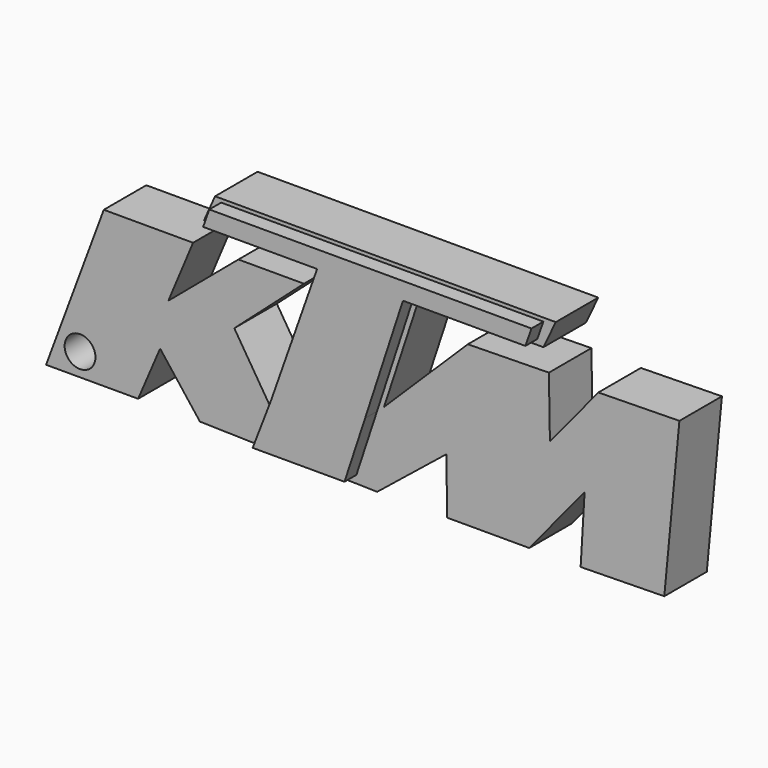
from build123d import *

# Parameters (mm, degrees)
F1_DEPTH = 2.5
F2_R     = 0.7249372234
F3_DEPTH = 2.5
F5_DEPTH = 0.7


with BuildPart() as f1:
    # F0 (on Front) → F1 (new body)
    with BuildSketch(Plane.XZ):
        Polygon((-9.4160782173, 4.8845554702), (-12.13010028, -2.4174565915), (-7.8005888499, -2.4174565915), (-6.7666755058, 0), (-4.8927078024, -2.4174565915), (3.4432173707, -2.6133938689), (6.6945207968, 0), (6.7388154566, -2.6133938689), (10.5981117284, -2.6133938689), (13.2007738575, 0.5550436326), (13.0135210928, -2.6133938689), (16.9487092644, -2.5466959924), (17.65952399, 4.9491748214), (13.846969232, 4.8845554702), (11.5687668393, 2.1111098447), (11.5206642076, 4.9491748214), (7.7081094496, 4.8845554702), (3.7663155235, 1.0073808953), (5.3818048909, 5.9184683487), (11.2621868029, 5.9184683487), (11.8437623605, 7.1462406777), (-4.1818926111, 7.1462406777), (-4.6988492832, 5.9830881655), (0.8584343595, 5.9830881655), (-1.5324898995, -0.8019671077), (-3.277218435, 1.9766744226), (0, 4.8845554702), (-3.0833596829, 4.8845554702), (-6.3789580017, 2.1059135906), (-5.2158059552, 4.8845554702), align=None)
    extrude(amount=F1_DEPTH)

    # F2 (on face) → F3 (cut, through all)
    with BuildSketch(Plane.XZ.offset(2.5)):
        with Locations((-10.5334725231, -1.3533922611)):
            Circle(F2_R)
    extrude(amount=-F3_DEPTH, mode=Mode.SUBTRACT)

    # F4 (on face) → F5 (join)
    with BuildSketch(Plane.XZ.offset(2.5)):
        Polygon((11.129762046, 6.9781923667), (-3.4941763151, 6.9781923667), (-3.7754920777, 6.9781923667), (-3.8937546778, 6.9781923667), (-4.1818926111, 6.1621805653), (-4.0636300109, 6.1621805653), (-1.2187248794, 6.1621805653), (1.055368688, 6.1621805653), (1.1777002364, 6.1621805653), (-0.993734838, 0), (-1.5324898995, -1.3987065759), (-1.8525599505, -2.2296669082), (2.4666503559, -2.2296669082), (3.4364298917, 0.7184627466), (5.2153817378, 6.1621805653), (5.4596047848, 6.1621805653), (10.9740488697, 6.1621805653), (11.2621868029, 6.9781923667), align=None)
    extrude(amount=F5_DEPTH)


solid = f1.part
